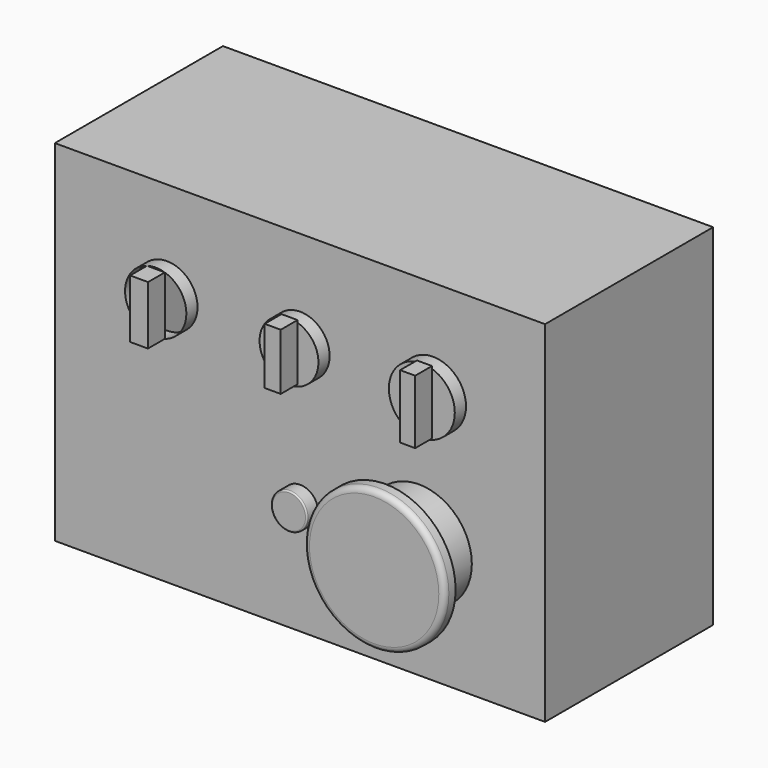
from build123d import *

# Parameters (mm, degrees)
F0_W      = 8890
F0_H      = 6350
F1_DEPTH  = 3810
F2_R      = 554.96746
F2_R_2    = 533.857089
F2_R_3    = 598.021088
F3_DEPTH  = 254
F4_W      = 290.506393
F4_H      = 1025.140881
F4_W_2    = 273.239136
F4_H_2    = 1156.905531
F5_DEPTH  = 381
F6_R      = 324.736583
F7_DEPTH  = 254
F8_R      = 25.4
F9_R      = 958.709302
F10_DEPTH = 762
F11_R     = 254
F12_R     = 1274.22557
F13_DEPTH = 254
F14_R     = 101.6


with BuildPart() as f1:
    # F0 (on Front) → F1 (new body)
    with BuildSketch(Plane.XZ):
        with Locations((-4.156779, 378.430771)):
            Rectangle(F0_W, F0_H)
    extrude(amount=F1_DEPTH)

    # F2 (on face) → F3 (join)
    with BuildSketch(Plane.XZ.offset(3810)):
        with Locations((-2417.156779, 1775.430771)):
            Circle(F2_R)
        with Locations((0, 1775.430771)):
            Circle(F2_R_2)
        with Locations((2408.843221, 1775.430771)):
            Circle(F2_R_3)
    extrude(amount=F3_DEPTH)

    # F4 (on face) → F5 (join)
    with BuildSketch(Plane.XZ.offset(4064)):
        with BuildLine():
            Line((-2259.043621, 2307.397979), (-2575.269938, 2307.397979))
            Line((-2575.269938, 2307.397979), (-2575.269938, 1245.297705))
            Line((-2575.269938, 1245.297705), (-2252.99889, 1245.297705))
            Line((-2252.99889, 1245.297705), (-2252.99889, 2305.563838))
            ThreePointArc((-2252.99889, 2305.563838), (-2256.018646, 2306.489509), (-2259.043621, 2307.397979))
        make_face()
        with Locations((9.704233, 1816.295087)):
            Rectangle(F4_W, F4_H)
        with Locations((2456.90155, 1809.926569)):
            Rectangle(F4_W_2, F4_H_2)
    extrude(amount=F5_DEPTH)

    # F6 (on face) → F7 (join)
    with BuildSketch(Plane.XZ.offset(3810)):
        with Locations((0, -778.37044)):
            Circle(F6_R)
    extrude(amount=F7_DEPTH)

    # F8
    f8_edges = [f1.edges().sort_by_distance(p)[0] for p in [
        (-324.736583, -4064, -778.37044),
    ]]
    fillet(f8_edges, radius=F8_R)

    # F9 (on face) → F10 (join)
    with BuildSketch(Plane.XZ.offset(3810)):
        with Locations((2153.992891, -705.795646)):
            Circle(F9_R)
    extrude(amount=F10_DEPTH)

    # F11
    f11_edges = [f1.edges().sort_by_distance(p)[0] for p in [
        (1195.283589, -4572, -705.795646),
    ]]
    fillet(f11_edges, radius=F11_R)

    # F12 (on face) → F13 (join)
    with BuildSketch(Plane.XZ.offset(4572)):
        with Locations((2153.992891, -705.795646)):
            Circle(F12_R)
    extrude(amount=F13_DEPTH)

    # F14
    f14_edges = [f1.edges().sort_by_distance(p)[0] for p in [
        (879.767321, -4826, -705.795646),
    ]]
    fillet(f14_edges, radius=F14_R)


solid = f1.part
